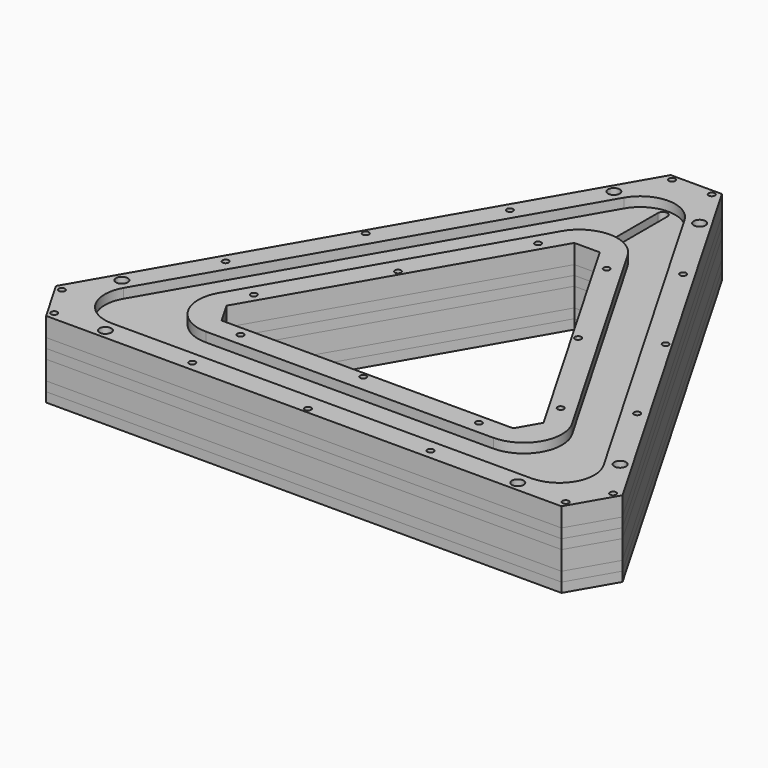
from build123d import *

# Parameters (mm, degrees)
BOX_BOTTOM_HALF_1_W     = 180.2525403784
BOX_BOTTOM_HALF_1_H     = 156.3712282568
BOX_BOTTOM_HALF_1_DEPTH = 7
BOX_BOTTOM_HALF_0_W     = 180.2525403784
BOX_BOTTOM_HALF_0_H     = 156.3712282568
BOX_BOTTOM_HALF_0_DEPTH = 13
PAD_DEPTH               = 24
POCKET_DEPTH            = 3
SKETCH002_W             = 70
SKETCH002_H             = 18.5
POCKET001_DEPTH         = 18
POLARPATTERN_COUNT      = 3
POCKET002_DEPTH         = 6
CHAMFER_SIZE            = 8
FILLET_R                = 13
FILLET001_R             = 11
CHAMFER001_SIZE         = 16.1
FILLET002_R             = 11
FILLET003_R             = 12
POCKET003_DEPTH         = 6
POCKET004_DEPTH         = 18
POCKET005_DEPTH         = 21.001
SKETCH007_W             = 15.5
SKETCH007_H             = 15
POCKET006_DEPTH         = 5
SKETCH010_W             = 13.6
SKETCH010_H             = 9
POCKET009_DEPTH         = 15.5
POCKET010_DEPTH         = 3
SKETCH012_R             = 1.85
SKETCH012_R_2           = 0.99
POCKET011_DEPTH         = 498.0492855781
POLARPATTERN001_COUNT   = 3
POCKET012_DEPTH         = 12
POCKET013_DEPTH         = 3
POCKET014_DEPTH         = 3
FILLET004_R             = 2
FILLET005_R             = 1.5
FILLET006_R             = 11
BOX_BOTTOM_HALF_2_W     = 180.2525403784
BOX_BOTTOM_HALF_2_H     = 156.3712282568
BOX_BOTTOM_HALF_2_DEPTH = 7
BOX_BOTTOM_HALF_3_W     = 180.2525403784
BOX_BOTTOM_HALF_3_H     = 156.3712282568
BOX_BOTTOM_HALF_3_DEPTH = 4
BOX_BOTTOM_HALF_4_W     = 180.2525403784
BOX_BOTTOM_HALF_4_H     = 156.3712282568
BOX_BOTTOM_HALF_4_DEPTH = 4


with BuildPart() as box_bottom_half_1_body:
    # box_bottom_half_1 → box_bottom_half_1 (new body)
    with BuildSketch(Plane(origin=(-90.1262701892, -57.1047457526, -1), x_dir=(1, 0, 0), z_dir=(0, 0, 1))):
        with Locations((90.1262701892, 78.1856141284)):
            Rectangle(BOX_BOTTOM_HALF_1_W, BOX_BOTTOM_HALF_1_H)
    extrude(amount=BOX_BOTTOM_HALF_1_DEPTH)


with BuildPart() as box_bottom_half_0_body:
    # box_bottom_half_0 → box_bottom_half_0 (new body)
    with BuildSketch(Plane(origin=(-90.1262701892, -57.1047457526, -1), x_dir=(1, 0, 0), z_dir=(0, 0, 1))):
        with Locations((90.1262701892, 78.1856141284)):
            Rectangle(BOX_BOTTOM_HALF_0_W, BOX_BOTTOM_HALF_0_H)
    extrude(amount=BOX_BOTTOM_HALF_0_DEPTH)


with BuildPart() as body:
    # Sketch → Pad (new body)
    with BuildSketch(Plane.XY):
        Polygon((0, 112.2094915052), (-97.1762701892, -56.1047457526), (97.1762701892, -56.1047457526), align=None)
        Polygon((0, 62.2094915052), (-53.875, -31.1047457526), (53.875, -31.1047457526), align=None, mode=Mode.SUBTRACT)
    extrude(amount=PAD_DEPTH)

    # Sketch001 (on Face8 of Pad) → Pocket (cut)
    with BuildSketch(Plane.XY.offset(24)):
        Polygon((0, 98.2094915052), (-85.0519145362, -49.1047457526), (85.0519145362, -49.1047457526), align=None)
        Polygon((0, 76.2094915052), (-65.999355653, -38.1047457526), (65.999355653, -38.1047457526), align=None, mode=Mode.SUBTRACT)
    extrude(amount=-POCKET_DEPTH, mode=Mode.SUBTRACT)

    # Sketch002 (on Face4 of Pocket) → Pocket001 (cut)
    with BuildSketch(Plane(origin=(0, 0, 0), x_dir=(1, 0, 0), z_dir=(0, 0, -1))):
        with Locations((0, 43.6047457526)):
            Rectangle(SKETCH002_W, SKETCH002_H)
    pocket001 = extrude(amount=-POCKET001_DEPTH, mode=Mode.SUBTRACT)

    # PolarPattern: Pocket001 ×3 about axis
    polarpattern_axis = Axis((0, 0, 0), (0, 0, -1))
    for i in range(1, POLARPATTERN_COUNT):
        add(pocket001.rotate(polarpattern_axis, i * 360 / POLARPATTERN_COUNT), mode=Mode.SUBTRACT)

    # Sketch003 (on Face4 of PolarPattern) → Pocket002 (cut)
    with BuildSketch(Plane(origin=(0, 0, 0), x_dir=(1, 0, 0), z_dir=(0, 0, -1))):
        Polygon((0, -100.2094915052), (86.7839653438, 50.1047457526), (-86.7839653438, 50.1047457526), align=None)
        Polygon((0, -74.2094915052), (64.2673048454, 37.1047457526), (-64.2673048454, 37.1047457526), align=None, mode=Mode.SUBTRACT)
    extrude(amount=-POCKET002_DEPTH, mode=Mode.SUBTRACT)

    # Chamfer
    chamfer_edges = [body.edges().sort_by_distance(p)[0] for p in [
        (-53.875, -31.104746, 12),
        (53.875, -31.104746, 12),
        (0, 62.209492, 12),
    ]]
    chamfer(chamfer_edges, length=CHAMFER_SIZE)

    # Fillet
    fillet_edges = [body.edges().sort_by_distance(p)[0] for p in [
        (0, 100.209492, 3),
        (-86.783965, -50.104746, 3),
        (86.783965, -50.104746, 3),
    ]]
    fillet(fillet_edges, radius=FILLET_R)

    # Fillet001
    fillet001_edges = [body.edges().sort_by_distance(p)[0] for p in [
        (0, 74.209492, 3),
        (64.267305, -37.104746, 3),
        (-64.267305, -37.104746, 3),
    ]]
    fillet(fillet001_edges, radius=FILLET001_R)

    # Chamfer001
    chamfer001_edges = [body.edges().sort_by_distance(p)[0] for p in [
        (97.17627, -56.104746, 12),
        (0, 112.209492, 12),
        (-97.17627, -56.104746, 12),
    ]]
    chamfer(chamfer001_edges, length=CHAMFER001_SIZE)

    # Fillet002
    fillet002_edges = [body.edges().sort_by_distance(p)[0] for p in [
        (0, 98.209492, 22.5),
        (-85.051915, -49.104746, 22.5),
        (85.051915, -49.104746, 22.5),
    ]]
    fillet(fillet002_edges, radius=FILLET002_R)

    # Fillet003
    fillet003_edges = [body.edges().sort_by_distance(p)[0] for p in [
        (65.999356, -38.104746, 22.5),
        (0, 76.209492, 22.5),
        (-65.999356, -38.104746, 22.5),
    ]]
    fillet(fillet003_edges, radius=FILLET003_R)

    # Sketch004 (on Face60 of Fillet003) → Pocket003 (cut)
    with BuildSketch(Plane(origin=(0, 0, 6), x_dir=(1, 0, 0), z_dir=(0, 0, -1))):
        Polygon((-8.75, -72.1664825043), (8.75, -72.1664825043), (8.75, -94.7664825043), (4, -94.7664825043), (4, -98.2664825043), (-4, -98.2664825043), (-4, -94.7664825043), (-8.75, -94.7664825043), align=None)
    extrude(amount=-POCKET003_DEPTH, mode=Mode.SUBTRACT)

    # Sketch005 (on Face29 of Pocket003) → Pocket004 (cut)
    with BuildSketch(Plane(origin=(0, 0, 0), x_dir=(1, 0, 0), z_dir=(0, 0, -1))):
        Polygon((46.1715988394, 38.9547457526), (68.6882593378, 51.9547457526), (79.3382593378, 33.508404652), (56.8215988394, 20.508404652), align=None)
    extrude(amount=-POCKET004_DEPTH, mode=Mode.SUBTRACT)

    # Sketch006 (on Face1 of Pocket004) → Pocket005 (cut, through all)
    with BuildSketch(Plane.XY.offset(21)):
        with BuildLine():
            ThreePointArc((1.5, 85.0404521425), (0, 86.5404521425), (-1.5, 85.0404521425))
            Line((-1.5, 85.0404521425), (-1.5, 66.0404521425))
            ThreePointArc((-1.5, 66.0404521425), (0, 64.5404521425), (1.5, 66.0404521425))
            Line((1.5, 85.0404521425), (1.5, 66.0404521425))
        make_face()
    extrude(amount=-POCKET005_DEPTH, mode=Mode.SUBTRACT)

    # Sketch007 (on Face24 of Pocket005) → Pocket006 (cut)
    with BuildSketch(Plane(origin=(-48.5881350946, 28.0523728763, 0), x_dir=(-0.5, -0.8660254038, 0), z_dir=(-0.8660254038, 0.5, 0))):
        with Locations((-47.3262701892, 13.5)):
            Rectangle(SKETCH007_W, SKETCH007_H)
    extrude(amount=-POCKET006_DEPTH, mode=Mode.SUBTRACT)

    # Sketch010 (on Face79 of Pocket006) → Pocket009 (cut)
    with BuildSketch(Plane(origin=(-44.2580080757, 25.5523728763, 0), x_dir=(-0.5, -0.8660254038, 0), z_dir=(-0.8660254038, 0.5, 0))):
        with Locations((-47.3262701892, 13.5)):
            Rectangle(SKETCH010_W, SKETCH010_H)
    extrude(amount=-POCKET009_DEPTH, mode=Mode.SUBTRACT)

    # Sketch011 (on Face21 of Pocket009) → Pocket010 (cut)
    with BuildSketch(Plane(origin=(0, 0, 6), x_dir=(1, 0, 0), z_dir=(0, 0, -1))):
        Polygon((-21.0413798427, -59.7570681827), (-11.6817654684, -54.3532923042), (-6.658482036, -63.0538744299), (-16.0180964103, -68.4576503084), align=None)
    extrude(amount=-POCKET010_DEPTH, mode=Mode.SUBTRACT)

    # Sketch012 (on Face54 of Pocket010) → Pocket011 (cut, through all)
    with BuildSketch(Plane(origin=(0, 0, 0), x_dir=(1, 0, 0), z_dir=(0, 0, -1))):
        with Locations((-13.5, -82.7032108255)):
            Circle(SKETCH012_R)
        with Locations((13.5, -82.7032108255)):
            Circle(SKETCH012_R)
        with Locations((-6.25, -96.5164825043)):
            Circle(SKETCH012_R_2)
        with Locations((6.25, -96.5164825043)):
            Circle(SKETCH012_R_2)
        with Locations((-27.2463245869, -59.0174730012)):
            Circle(SKETCH012_R_2)
        with Locations((-47.1862074814, -27.2405827309)):
            Circle(SKETCH012_R_2)
        with Locations((-64.7337931796, 5.9127272486)):
            Circle(SKETCH012_R_2)
        with Locations((-10.791841915, -49.5174730012)):
            Circle(SKETCH012_R_2)
        with Locations((-28.3394276132, -16.3641630217)):
            Circle(SKETCH012_R_2)
        with Locations((-48.2793105078, 15.4127272487)):
            Circle(SKETCH012_R_2)
    pocket011 = extrude(amount=-POCKET011_DEPTH, mode=Mode.SUBTRACT)

    # PolarPattern001: Pocket011 ×3 about axis
    polarpattern001_axis = Axis((0, 0, 0), (0, 0, -1))
    for i in range(1, POLARPATTERN001_COUNT):
        add(pocket011.rotate(polarpattern001_axis, i * 360 / POLARPATTERN001_COUNT), mode=Mode.SUBTRACT)

    # Sketch013 (on Face132 of PolarPattern001) → Pocket012 (cut)
    with BuildSketch(Plane(origin=(0, 0, 6), x_dir=(1, 0, 0), z_dir=(0, 0, -1))):
        Polygon((58.553649647, 21.508404652), (63.3167893678, 24.258404652), (66.3167893678, 19.0622522293), (61.553649647, 16.3122522293), align=None)
    extrude(amount=-POCKET012_DEPTH, mode=Mode.SUBTRACT)

    # Sketch014 (on Face127 of Pocket012) → Pocket013 (cut)
    with BuildSketch(Plane(origin=(0, 0, 6), x_dir=(1, 0, 0), z_dir=(0, 0, -1))):
        Polygon((-74.3478338252, 33.3748379063), (-65.8478338252, 48.0972697706), (-52.8574527684, 40.5972697706), (-61.3574527684, 25.8748379063), align=None)
    extrude(amount=-POCKET013_DEPTH, mode=Mode.SUBTRACT)

    # Sketch015 (on Face21 of Pocket013) → Pocket014 (cut)
    with BuildSketch(Plane(origin=(0, 0, 6), x_dir=(1, 0, 0), z_dir=(0, 0, -1))):
        with BuildLine():
            ThreePointArc((-8.75, -63.0538744299), (-13.3063040372, -67.6101784671), (-8.75, -72.1664825043))
            Line((-8.75, -72.1664825043), (8.75, -72.1664825043))
            ThreePointArc((8.75, -72.1664825043), (13.3063040372, -67.6101784671), (8.75, -63.0538744299))
            Line((-8.75, -63.0538744299), (8.75, -63.0538744299))
        make_face()
    extrude(amount=-POCKET014_DEPTH, mode=Mode.SUBTRACT)

    # Fillet004
    fillet004_edges = [body.edges().sort_by_distance(p)[0] for p in [
        (-13.243399, 66.855678, 7.5),
    ]]
    fillet(fillet004_edges, radius=FILLET004_R)

    # Fillet005
    fillet005_edges = [body.edges().sort_by_distance(p)[0] for p in [
        (-6.658482, 63.053874, 7.5),
    ]]
    fillet(fillet005_edges, radius=FILLET005_R)

    # Fillet006
    fillet006_edges = [body.edges().sort_by_distance(p)[0] for p in [
        (-8.75, 72.166483, 7.5),
        (8.75, 72.166483, 7.5),
    ]]
    fillet(fillet006_edges, radius=FILLET006_R)


with BuildPart() as bottom_half_0_body:
    # bottom_half_0 base: copy of Body
    add(body.part)

    # bottom_half_0: intersect box_bottom_half_0 body
    add(box_bottom_half_0_body.part, mode=Mode.INTERSECT)


with BuildPart() as top_half_1_body:
    # top_half_1 base: copy of bottom_half_0 body
    add(bottom_half_0_body.part)

    # top_half_1: cut box_bottom_half_1 body
    add(box_bottom_half_1_body.part, mode=Mode.SUBTRACT)


with BuildPart() as box_bottom_half_2_body:
    # box_bottom_half_2 → box_bottom_half_2 (new body)
    with BuildSketch(Plane(origin=(-90.1262701892, -57.1047457526, 11), x_dir=(1, 0, 0), z_dir=(0, 0, 1))):
        with Locations((90.1262701892, 78.1856141284)):
            Rectangle(BOX_BOTTOM_HALF_2_W, BOX_BOTTOM_HALF_2_H)
    extrude(amount=BOX_BOTTOM_HALF_2_DEPTH)


with BuildPart() as top_half_0_body:
    # top_half_0 base: copy of Body
    add(body.part)

    # top_half_0: cut box_bottom_half_0 body
    add(box_bottom_half_0_body.part, mode=Mode.SUBTRACT)


with BuildPart() as top_half_2_body:
    # top_half_2 base: copy of top_half_0 body
    add(top_half_0_body.part)

    # top_half_2: cut box_bottom_half_2 body
    add(box_bottom_half_2_body.part, mode=Mode.SUBTRACT)


with BuildPart() as box_bottom_half_3_body:
    # box_bottom_half_3 → box_bottom_half_3 (new body)
    with BuildSketch(Plane(origin=(-90.1262701892, -57.1047457526, -1), x_dir=(1, 0, 0), z_dir=(0, 0, 1))):
        with Locations((90.1262701892, 78.1856141284)):
            Rectangle(BOX_BOTTOM_HALF_3_W, BOX_BOTTOM_HALF_3_H)
    extrude(amount=BOX_BOTTOM_HALF_3_DEPTH)


with BuildPart() as bottom_half_1_body:
    # bottom_half_1 base: copy of bottom_half_0 body
    add(bottom_half_0_body.part)

    # bottom_half_1: intersect box_bottom_half_1 body
    add(box_bottom_half_1_body.part, mode=Mode.INTERSECT)


with BuildPart() as bottom_half_3_body:
    # bottom_half_3 base: copy of bottom_half_1 body
    add(bottom_half_1_body.part)

    # bottom_half_3: intersect box_bottom_half_3 body
    add(box_bottom_half_3_body.part, mode=Mode.INTERSECT)


with BuildPart() as top_half_3_body:
    # top_half_3 base: copy of bottom_half_1 body
    add(bottom_half_1_body.part)

    # top_half_3: cut box_bottom_half_3 body
    add(box_bottom_half_3_body.part, mode=Mode.SUBTRACT)


with BuildPart() as box_bottom_half_4_body:
    # box_bottom_half_4 → box_bottom_half_4 (new body)
    with BuildSketch(Plane(origin=(-90.1262701892, -57.1047457526, 11), x_dir=(1, 0, 0), z_dir=(0, 0, 1))):
        with Locations((90.1262701892, 78.1856141284)):
            Rectangle(BOX_BOTTOM_HALF_4_W, BOX_BOTTOM_HALF_4_H)
    extrude(amount=BOX_BOTTOM_HALF_4_DEPTH)


with BuildPart() as bottom_half_2_body:
    # bottom_half_2 base: copy of top_half_0 body
    add(top_half_0_body.part)

    # bottom_half_2: intersect box_bottom_half_2 body
    add(box_bottom_half_2_body.part, mode=Mode.INTERSECT)


with BuildPart() as bottom_half_4_body:
    # bottom_half_4 base: copy of bottom_half_2 body
    add(bottom_half_2_body.part)

    # bottom_half_4: intersect box_bottom_half_4 body
    add(box_bottom_half_4_body.part, mode=Mode.INTERSECT)


with BuildPart() as top_half_4_body:
    # top_half_4 base: copy of bottom_half_2 body
    add(bottom_half_2_body.part)

    # top_half_4: cut box_bottom_half_4 body
    add(box_bottom_half_4_body.part, mode=Mode.SUBTRACT)


solid = Compound([top_half_1_body.part, top_half_2_body.part, bottom_half_3_body.part, top_half_3_body.part, bottom_half_4_body.part, top_half_4_body.part])
